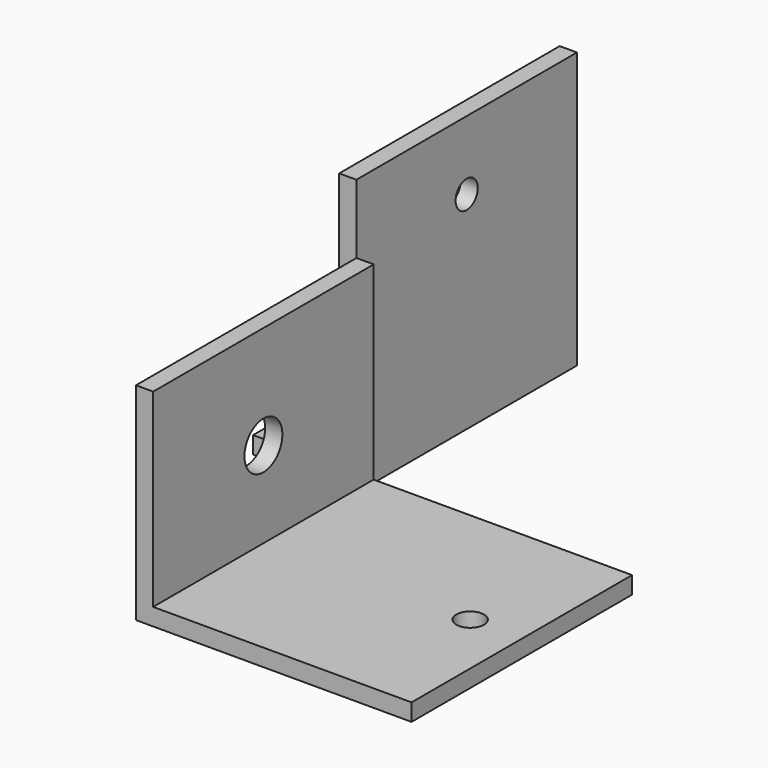
from build123d import *

# Parameters (mm, degrees)
F1_DEPTH        = 50.8
F3_D            = 5.1054
F5_D            = 8.7376
F6_W            = 68.8491852673
F6_H            = 40.5795811865
F7_DEPTH        = 25.4
F9_DEPTH        = 50.8
F11_D           = 7.1374
F11_CSINK_D     = 13.4874
F11_CSINK_ANGLE = 82
F13_D           = 5.1054


with BuildPart() as f1:
    # F0 (on Front) → F1 (new body)
    with BuildSketch(Plane.XZ):
        Polygon((0, 50.8), (0, 0), (50.8, 0), (50.8, 3.175), (3.175, 3.175), (3.175, 50.8), align=None)
    extrude(amount=F1_DEPTH)

    # F3 (through all)
    with Locations(Plane.XY.offset(3.175)):
        with Locations((41.275, -25.4)):
            Hole(F3_D / 2)

    # F5 (through all)
    with Locations(Plane.YZ.offset(3.175)):
        with Locations((-25.4, 19.05)):
            Hole(F5_D / 2)

    # F6 (on face) → F7 (cut)
    with BuildSketch(Plane.YZ.offset(3.175)):
        with Locations((-34.4245926337, 58.3897905932)):
            Rectangle(F6_W, F6_H)
    extrude(amount=-F7_DEPTH, mode=Mode.SUBTRACT)


with BuildPart() as f9:
    # F8 (on Front) → F9 (new body)
    with BuildSketch(Plane.XZ):
        Polygon((-19.05, 0), (0, 0), (0, 50.8), (-3.175, 50.8), (-3.175, 3.175), (-19.05, 3.175), align=None)
    extrude(amount=-F9_DEPTH)

    # F11 (through all)
    with Locations(Plane.XY.offset(3.175)):
        with Locations((-11.1125, 25.4)):
            CounterSinkHole(F11_D / 2, F11_CSINK_D / 2, counter_sink_angle=F11_CSINK_ANGLE)

    # F13 (through all)
    with Locations(Plane(origin=(-3.175, 0, 0), x_dir=(0, -1, 0), z_dir=(-1, 0, 0))):
        with Locations((-25.4, 38.1)):
            Hole(F13_D / 2)


solid = Compound([f1.part, f9.part])
